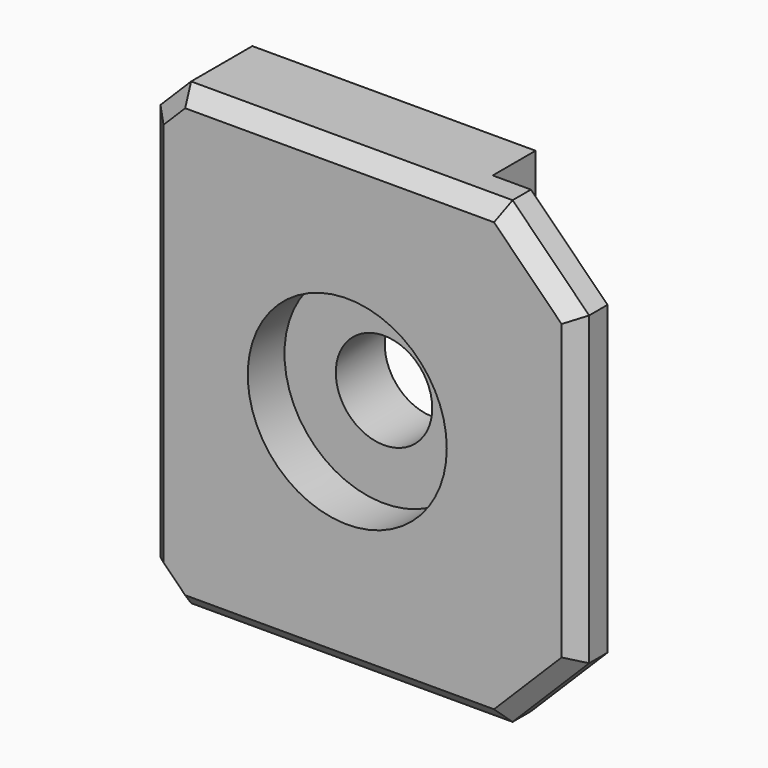
from build123d import *

# Parameters (mm, degrees)
CYLINDER004_R     = 6.5
CYLINDER004_DEPTH = 10
CYLINDER005_R     = 3.15
CYLINDER005_DEPTH = 10
BOX005_W          = 16
BOX005_H          = 9
BOX005_DEPTH      = 31
BOX004_W          = 28
BOX004_H          = 6
BOX004_DEPTH      = 30
CHAMFER017_SIZE   = 5
CHAMFER018_SIZE   = 2
CHAMFER019_SIZE   = 1
BOX006_W          = 7.8
BOX006_H          = 2
BOX006_DEPTH      = 30
CHAMFER008_SIZE   = 1


with BuildPart() as cylinder004:
    # Cylinder004 → Cylinder004 (new body)
    with BuildSketch(Plane(origin=(-15, -7, 15), x_dir=(1, 0, 0), z_dir=(0, 1, 0))):
        Circle(CYLINDER004_R)
    extrude(amount=CYLINDER004_DEPTH)


with BuildPart() as cylinder005:
    # Cylinder005 → Cylinder005 (new body)
    with BuildSketch(Plane(origin=(-15, 0, 15), x_dir=(1, 0, 0), z_dir=(0, 1, 0))):
        Circle(CYLINDER005_R)
    extrude(amount=CYLINDER005_DEPTH)


with BuildPart() as cube005:
    # Box005 → Box005 (new body)
    with BuildSketch(Plane(origin=(-7.5, 2.5, 0), x_dir=(1, 0, 0), z_dir=(0, 0, 1))):
        with Locations((8, 4.5)):
            Rectangle(BOX005_W, BOX005_H)
    extrude(amount=BOX005_DEPTH)


with BuildPart() as chamfer019:
    # Box004 → Box004 (new body)
    with BuildSketch(Plane(origin=(-28, 0, 0), x_dir=(1, 0, 0), z_dir=(0, 0, 1))):
        with Locations((14, 3)):
            Rectangle(BOX004_W, BOX004_H)
    extrude(amount=BOX004_DEPTH)

    # Cut002008006002: cut Cube005
    add(cube005.part, mode=Mode.SUBTRACT)

    # Chamfer017
    chamfer017_edges = [chamfer019.edges().sort_by_distance(p)[0] for p in [
        (0, 1.25, 30),
        (0, 1.25, 0),
    ]]
    chamfer(chamfer017_edges, length=CHAMFER017_SIZE)

    # Chamfer018
    chamfer018_edges = [chamfer019.edges().sort_by_distance(p)[0] for p in [
        (-28, 3, 0),
        (-28, 3, 30),
    ]]
    chamfer(chamfer018_edges, length=CHAMFER018_SIZE)

    # Chamfer019
    chamfer019_edges = [chamfer019.edges().sort_by_distance(p)[0] for p in [
        (-15.5, 0, 0),
        (-27, 0, 1),
        (-28, 0, 15),
        (-27, 0, 29),
        (-15.5, 0, 30),
        (-2.5, 0, 27.5),
        (0, 0, 15),
        (-2.5, 0, 2.5),
    ]]
    chamfer(chamfer019_edges, length=CHAMFER019_SIZE)


with BuildPart() as cut002008006004001:
    # Box006 → Box006 (new body)
    with BuildSketch(Plane(origin=(-18.9, 5, 0), x_dir=(1, 0, 0), z_dir=(0, 0, 1))):
        with Locations((3.9, 1)):
            Rectangle(BOX006_W, BOX006_H)
    extrude(amount=BOX006_DEPTH)

    # Chamfer008
    chamfer008_edges = [cut002008006004001.edges().sort_by_distance(p)[0] for p in [
        (-15, 7, 0),
        (-15, 7, 30),
    ]]
    chamfer(chamfer008_edges, length=CHAMFER008_SIZE)

    # Fusion009: union Chamfer019
    add(chamfer019.part)

    # Cut002008006003: cut Cylinder005
    add(cylinder005.part, mode=Mode.SUBTRACT)

    # Cut002008006004: cut Cylinder004
    add(cylinder004.part, mode=Mode.SUBTRACT)


solid = cut002008006004001.part
